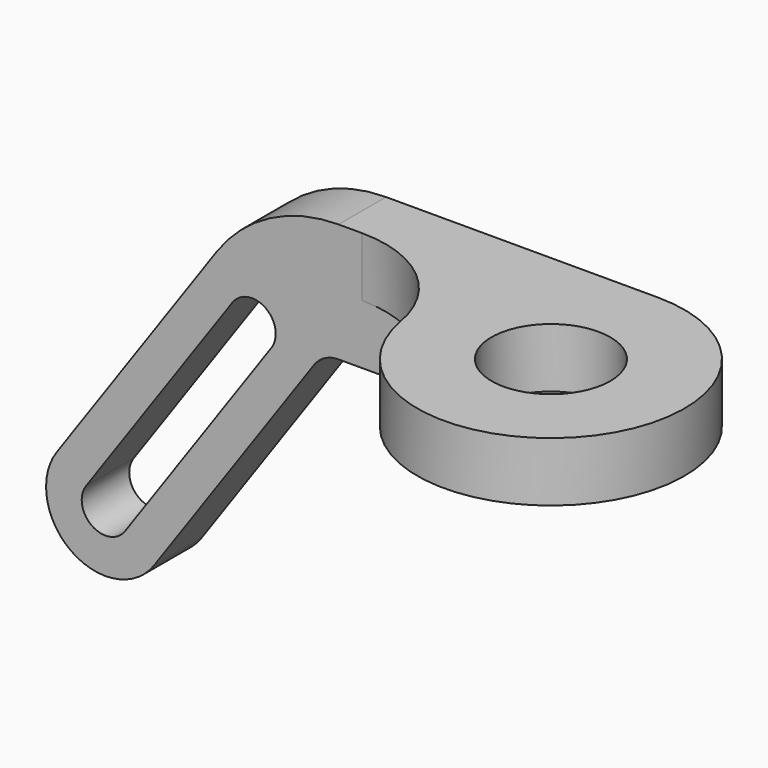
from build123d import *

# Parameters (mm, degrees)
F0_R     = 22.5
F0_R_2   = 10
F1_DEPTH = 10
F4_DEPTH = 10
F5_R     = 25
F6_R     = 5
F7_R     = 20


with BuildPart() as f1:
    # F0 (on Top) → F1 (new body)
    with BuildSketch(Plane.XY):
        Circle(F0_R)
        Circle(F0_R_2, mode=Mode.SUBTRACT)
    extrude(amount=-F1_DEPTH)

    # F3 (on offset) → F4 (join)
    with BuildSketch(Plane.XZ.offset(-22.5)):
        with BuildLine():
            Line((0, -20), (0, 0))
            Line((0, 0), (-58.776934, 0))
            Line((-58.776934, 0), (-93.19152, -49.149123))
            ThreePointArc((-93.19152, -49.149123), (-94.848078, -56.621369), (-90.735764, -63.076407))
            ThreePointArc((-90.735764, -63.076407), (-83.263518, -64.732965), (-76.80848, -60.620651))
            Line((-76.80848, -60.620651), (-48.365593, -20))
            Line((-48.365593, -20), (0, -20))
        make_face()
        with BuildLine():
            Line((-57.059605, -21.955655), (-81.723392, -57.179193))
            ThreePointArc((-81.723392, -57.179193), (-87.294306, -58.161495), (-88.276608, -52.590581))
            Line((-88.276608, -52.590581), (-63.612821, -17.367043))
            ThreePointArc((-63.612821, -17.367043), (-58.041907, -16.384741), (-57.059605, -21.955655))
        make_face(mode=Mode.SUBTRACT)
    extrude(amount=F4_DEPTH)

    # F5
    f5_edges = [f1.edges().sort_by_distance(p)[0] for p in [
        (-58.776934, 17.5, 0),
    ]]
    fillet(f5_edges, radius=F5_R)

    # F6
    f6_edges = [f1.edges().sort_by_distance(p)[0] for p in [
        (-48.365593, 17.5, -20),
    ]]
    fillet(f6_edges, radius=F6_R)

    # F7
    f7_edges = [f1.edges().sort_by_distance(p)[0] for p in [
        (-18.708287, 12.5, -5),
    ]]
    fillet(f7_edges, radius=F7_R)


solid = f1.part
